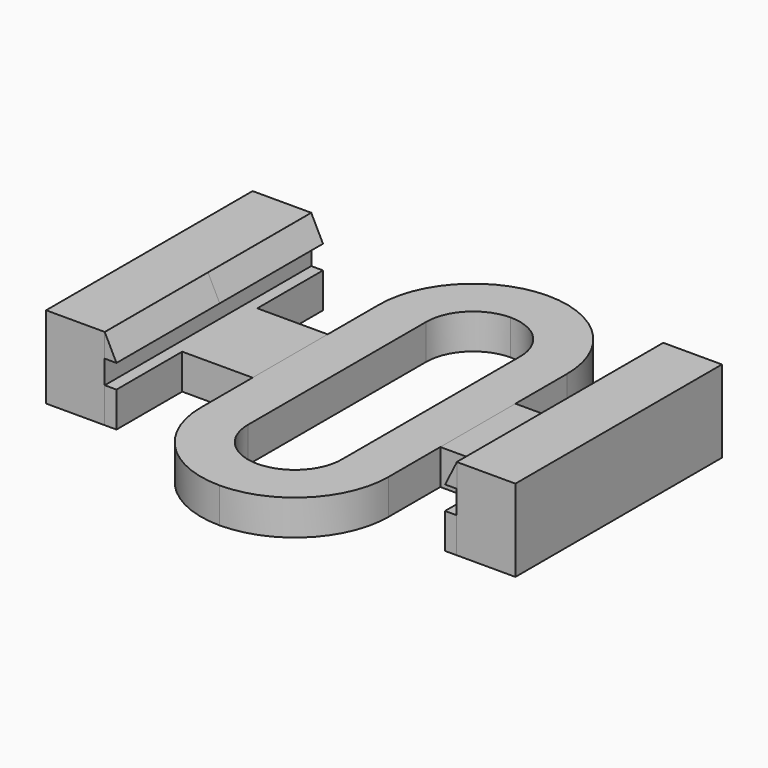
from build123d import *

# Parameters (mm, degrees)
F1_DEPTH = 2.8
F2_DEPTH = 1.2
F4_DEPTH = 4.4
F5_DEPTH = 4.4
F6_DEPTH = 1.2
F7_DEPTH = 1.2


with BuildPart() as f1:
    # F0 (on Top) → F1 (new body)
    with BuildSketch(Plane.XY):
        Polygon((8, 4.4), (6, 4.4), (6, -4.4), (8, -4.4), (8, 0), align=None)
        Polygon((-6, 4.4), (-8, 4.4), (-8, 1.6), (-8, 0), (-8, -1.6), (-8, -4.4), (-6, -4.4), align=None)
    extrude(amount=F1_DEPTH)

    # F0 (on Top) → F6 (join)
    with BuildSketch(Plane.XY):
        Polygon((-8, 0), (-8, 1.6), (-9, 1.6), (-9, -1.6), (-8, -1.6), align=None)
    extrude(amount=F6_DEPTH)


with BuildPart() as f2:
    # F0 (on Top) → F2 (new body)
    with BuildSketch(Plane.XY):
        with BuildLine():
            Line((-3.2, 3.8), (-3.2, 1.6))
            Line((-3.2, 1.6), (-3.2, -1.6))
            Line((-3.2, -1.6), (-3.2, -3.8))
            ThreePointArc((-3.2, -3.8), (-2.262742, -6.062742), (0, -7))
            ThreePointArc((0, -7), (2.262742, -6.062742), (3.2, -3.8))
            Line((3.2, -3.8), (3.2, -1.6))
            Line((3.2, -1.6), (3.2, 1.6))
            Line((3.2, 1.6), (3.2, 3.8))
            ThreePointArc((3.2, 3.8), (2.262742, 6.062742), (0, 7))
            ThreePointArc((0, 7), (-2.262742, 6.062742), (-3.2, 3.8))
        make_face()
        with BuildLine():
            Line((-1.6, -3.8), (-1.6, 0))
            Line((-1.6, 0), (-1.6, 3.8))
            ThreePointArc((-1.6, 3.8), (-1.131371, 4.931371), (0, 5.4))
            ThreePointArc((0, 5.4), (1.131371, 4.931371), (1.6, 3.8))
            Line((1.6, 3.8), (1.6, 0))
            Line((1.6, 0), (1.6, -3.8))
            ThreePointArc((1.6, -3.8), (1.131371, -4.931371), (0, -5.4))
            ThreePointArc((0, -5.4), (-1.131371, -4.931371), (-1.6, -3.8))
        make_face(mode=Mode.SUBTRACT)
    extrude(amount=F2_DEPTH)


with BuildPart() as f4:
    # F3 (on Front) → F4 (new body)
    with BuildSketch(Plane.XZ):
        Polygon((-5.600426, 1.99909), (-6.000426, 2.79909), (-6.000426, 1.99909), align=None)
        Polygon((6.003734, 1.995533), (6.003734, 2.795533), (5.603734, 1.995533), align=None)
    extrude(amount=F4_DEPTH)


with BuildPart() as f5:
    # F4_face (on face) → F5 (new body)
    with BuildSketch(Plane(origin=(-5.867093, 0, 2.265757), x_dir=(1, 0, 0), z_dir=(0, 1, 0))):
        Polygon((-0.133333, -0.533333), (0.266667, 0.266667), (-0.133333, 0.266667), align=None)
        Polygon((11.870827, -0.529776), (11.870827, 0.270224), (11.470827, 0.270224), align=None)
    extrude(amount=F5_DEPTH)


with BuildPart() as f7:
    # F0 (on Top) → F7 (new body)
    with BuildSketch(Plane.XY):
        Polygon((5.6, 1.6), (3.2, 1.6), (3.2, -1.6), (5.6, -1.6), (5.6, -4.4), (6, -4.4), (6, 4.4), (5.6, 4.4), align=None)
        Polygon((-5.6, 4.4), (-6, 4.4), (-6, -4.4), (-5.6, -4.4), (-5.6, -1.6), (-3.2, -1.6), (-3.2, 1.6), (-5.6, 1.6), align=None)
    extrude(amount=F7_DEPTH)


solid = Compound([f1.part, f2.part, f4.part, f5.part, f7.part])
